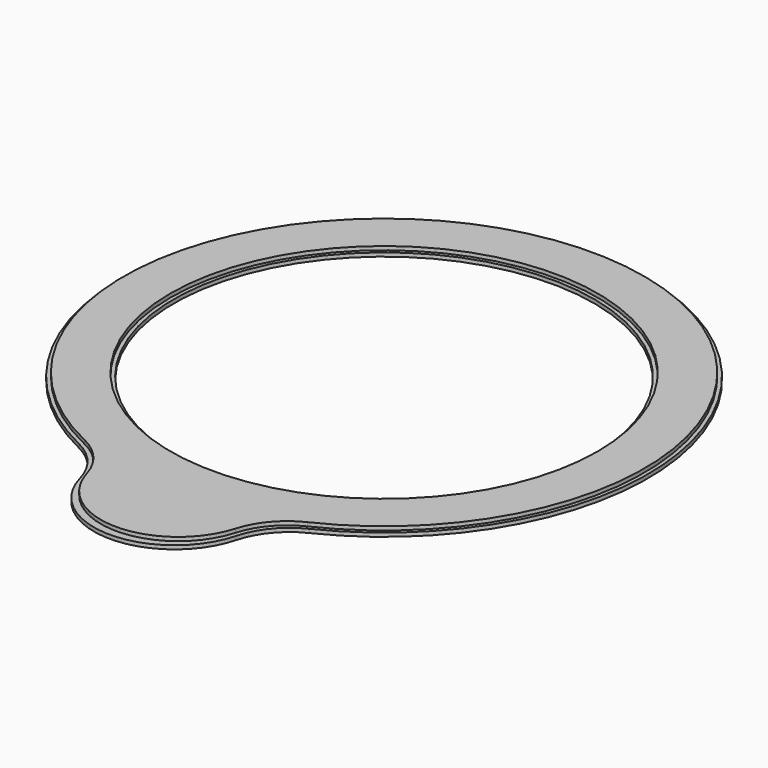
from build123d import *

# Parameters (mm, degrees)
PAD_DEPTH       = 4
SKETCH001_R     = 115
POCKET_DEPTH    = 10
PAD001_DEPTH    = 2
SKETCH003_R     = 113
POCKET001_DEPTH = 5


with BuildPart() as part:
    # Sketch → Pad (new body)
    with BuildSketch(Plane.XY):
        with BuildLine():
            ThreePointArc((60, -126.491106), (0, 140), (-60, -126.491106))
            ThreePointArc((-40, -150), (-47.476432, -136.098648), (-60, -126.491106))
            ThreePointArc((-40, -150), (0, -180.057233), (40, -150))
            ThreePointArc((60, -126.491106), (47.476432, -136.098648), (40, -150))
        make_face()
    extrude(amount=PAD_DEPTH)

    # Sketch001 → Pocket (cut)
    with BuildSketch(Plane.XY):
        Circle(SKETCH001_R)
    extrude(amount=POCKET_DEPTH, mode=Mode.SUBTRACT)

    # Sketch002 → Pad001 (join)
    with BuildSketch(Plane.XY):
        with BuildLine():
            ThreePointArc((62, -127.749755), (0, 142), (-62, -127.749755))
            ThreePointArc((-42, -152), (-49.356513, -137.694705), (-62, -127.749755))
            ThreePointArc((-42, -152), (0, -184.276954), (42, -152))
            ThreePointArc((62, -127.749755), (49.356513, -137.694705), (42, -152))
        make_face()
    extrude(amount=PAD001_DEPTH)

    # Sketch003 → Pocket001 (cut)
    with BuildSketch(Plane.XY):
        Circle(SKETCH003_R)
    extrude(amount=POCKET001_DEPTH, mode=Mode.SUBTRACT)


solid = part.part
